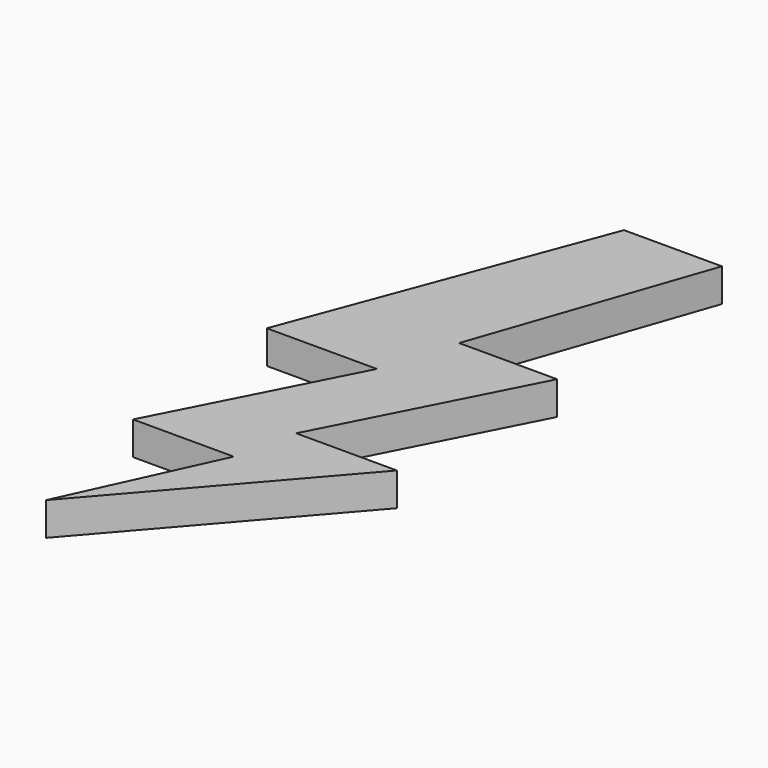
from build123d import *

# Parameters (mm, degrees)
PAD_DEPTH = 5


with BuildPart() as part:
    # Sketch → Pad (new body)
    with BuildSketch(Plane.XY):
        Polygon((20.152037, 49.243038), (34.887772, 49.243038), (22.968578, 14.69799), (37.716057, 14.69799), (22.362518, -15.200999), (37.51836, -15.200999), (10.039295, -46.847012), (20.342327, -24.422773), (5.190806, -24.422773), (19.538774, 3.515318), (2.973121, 3.515318), align=None)
    extrude(amount=PAD_DEPTH)


solid = part.part
